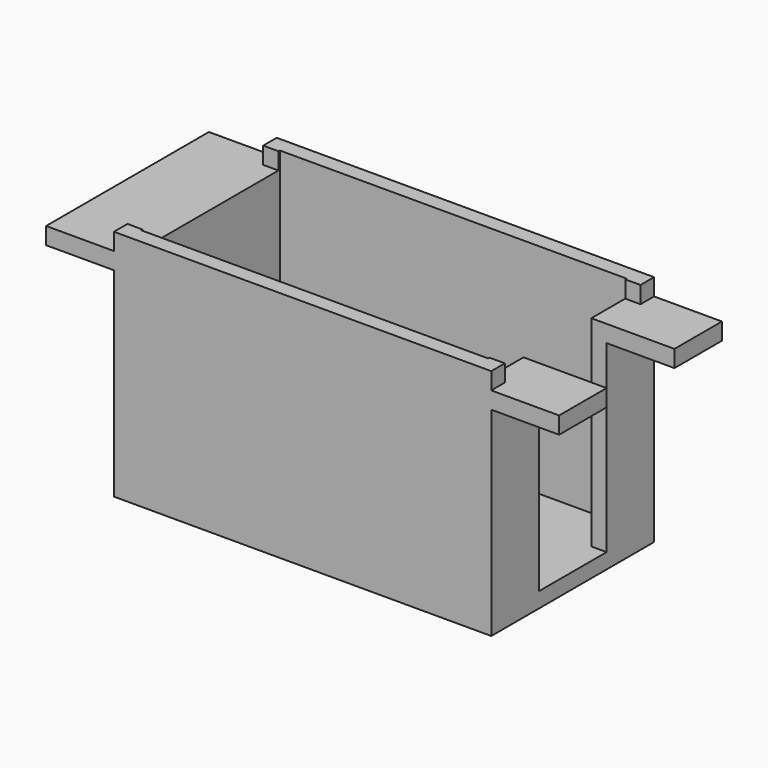
from build123d import *

# Parameters (mm, degrees)
CUBE003_W     = 60.5
CUBE003_H     = 20
CUBE003_DEPTH = 3
CUBE004_W     = 30
CUBE004_H     = 10
CUBE004_DEPTH = 47.5
CUBE002_W     = 40.9
CUBE002_H     = 20.4
CUBE002_DEPTH = 27.9
CUBE001_W     = 60.5
CUBE001_H     = 24
CUBE001_DEPTH = 2
CUBE_W        = 44.5
CUBE_H        = 24
CUBE_DEPTH    = 27.5


with BuildPart() as cube003:
    # cube003 → cube003 (new body)
    with BuildSketch(Plane(origin=(-30.25, -10, 11.75), x_dir=(1, 0, 0), z_dir=(0, 0, 1))):
        with Locations((30.25, 10)):
            Rectangle(CUBE003_W, CUBE003_H)
    extrude(amount=CUBE003_DEPTH)


with BuildPart() as cube004:
    # cube004 → cube004 (new body)
    with BuildSketch(Plane(origin=(5, -5, -11.95), x_dir=(1, 0, 0), z_dir=(0, 0, 1))):
        with Locations((15, 5)):
            Rectangle(CUBE004_W, CUBE004_H)
    extrude(amount=CUBE004_DEPTH)


with BuildPart() as union001:
    # cube002 → cube002 (new body)
    with BuildSketch(Plane(origin=(-20.45, -10.2, -11.95), x_dir=(1, 0, 0), z_dir=(0, 0, 1))):
        with Locations((20.45, 10.2)):
            Rectangle(CUBE002_W, CUBE002_H)
    extrude(amount=CUBE002_DEPTH)

    # union001: union cube003, cube004
    add(cube003.part)
    add(cube004.part)


with BuildPart() as cube001:
    # cube001 → cube001 (new body)
    with BuildSketch(Plane(origin=(-30.25, -12, 9.75), x_dir=(1, 0, 0), z_dir=(0, 0, 1))):
        with Locations((30.25, 12)):
            Rectangle(CUBE001_W, CUBE001_H)
    extrude(amount=CUBE001_DEPTH)


with BuildPart() as difference:
    # cube → cube (new body)
    with BuildSketch(Plane(origin=(-22.25, -12, -13.75), x_dir=(1, 0, 0), z_dir=(0, 0, 1))):
        with Locations((22.25, 12)):
            Rectangle(CUBE_W, CUBE_H)
    extrude(amount=CUBE_DEPTH)

    # union: union cube001
    add(cube001.part)

    # difference: cut union001
    add(union001.part, mode=Mode.SUBTRACT)


solid = difference.part
